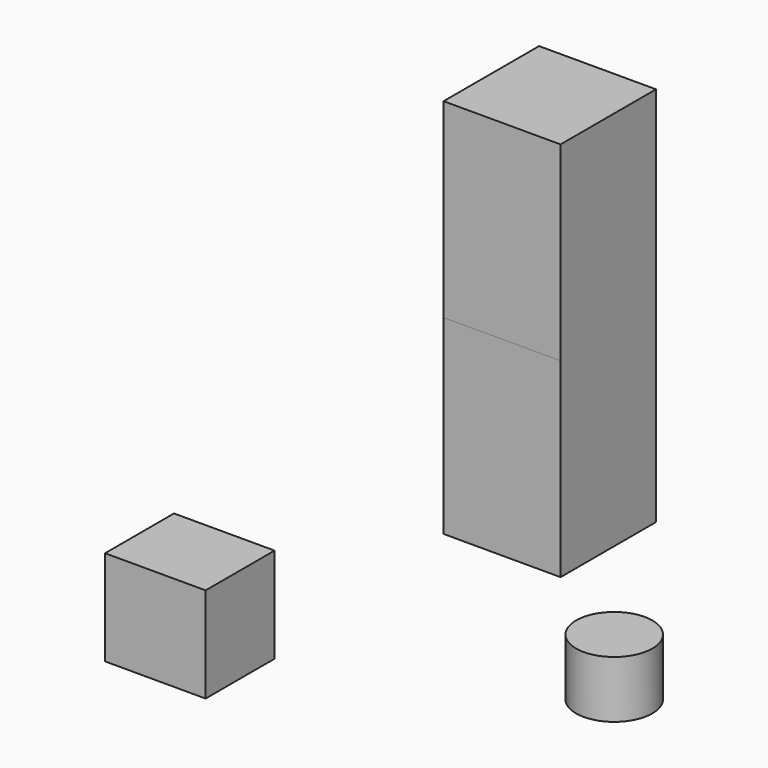
from build123d import *

# Parameters (mm, degrees)
F0_W      = 15.598128
F0_H      = 15.910303
F1_DEPTH  = 25.4
F1_FACE_W = 15.598128
F1_FACE_H = 15.910304
F2_DEPTH  = 25.4
F3_W      = 13.407506
F3_H      = 11.49156
F4_DEPTH  = 12.7
F5_R      = 5.082662
F6_DEPTH  = 7.62


with BuildPart() as f1:
    # F0 (on Top) → F1 (new body)
    with BuildSketch(Plane.XY):
        with Locations((0, 4.939955)):
            Rectangle(F0_W, F0_H)
    extrude(amount=F1_DEPTH)

    # F1_face (on face) → F2 (join)
    with BuildSketch(Plane(origin=(0, 4.939955, 25.4), x_dir=(1, 0, 0), z_dir=(0, 0, 1))):
        Rectangle(F1_FACE_W, F1_FACE_H)
    extrude(amount=F2_DEPTH)


with BuildPart() as f4:
    # F3 (on Top) → F4 (new body)
    with BuildSketch(Plane.XY):
        with Locations((-10.665063, -41.728735)):
            Rectangle(F3_W, F3_H)
    extrude(amount=F4_DEPTH)


with BuildPart() as f6:
    # F5 (on Top) → F6 (new body)
    with BuildSketch(Plane.XY):
        with Locations((29.375305, -21.043923)):
            Circle(F5_R)
    extrude(amount=F6_DEPTH)


solid = Compound([f1.part, f4.part, f6.part])
